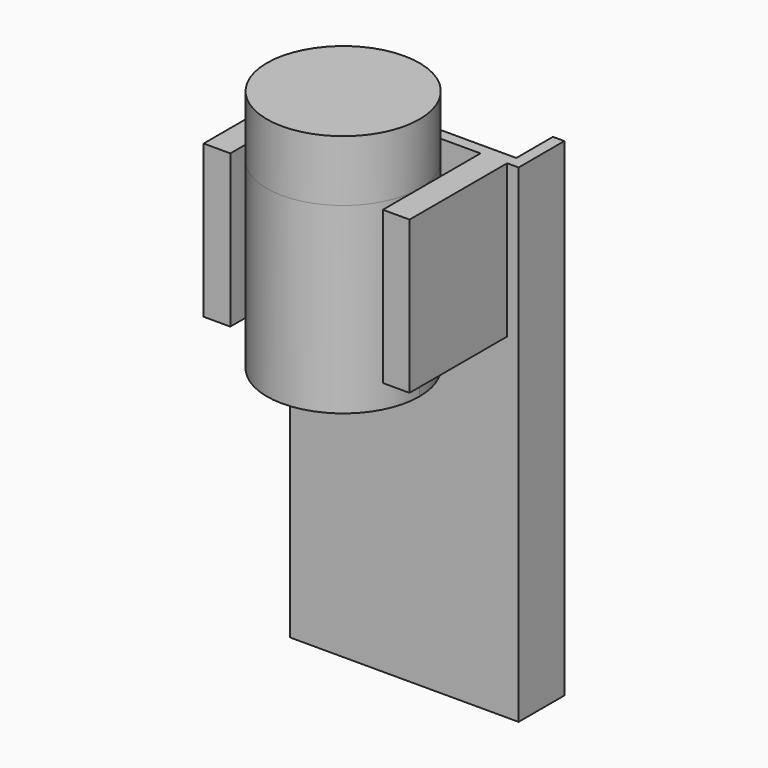
from build123d import *

# Parameters (mm, degrees)
F0_W          = 9.525
F0_H          = 406.4
F0_W_2        = 171.45
F1_DEPTH      = 9.525
F2_DEPTH      = 38.1
F4_DEPTH      = 152.4
F4_DEPTH_BACK = 50.8
F5_DEPTH      = 127


with BuildPart() as f1:
    # F0 (on Front) → F1 (new body)
    with BuildSketch(Plane.XZ):
        with Locations((-4.7625, 203.2)):
            Rectangle(F0_W, F0_H)
        with Locations((85.725, 203.2)):
            Rectangle(F0_W_2, F0_H)
        with Locations((176.2125, 203.2)):
            Rectangle(F0_W, F0_H)
    extrude(amount=F1_DEPTH)

    # F0 (on Front) → F2 (join)
    with BuildSketch(Plane.XZ):
        with Locations((176.2125, 203.2)):
            Rectangle(F0_W, F0_H)
        with Locations((-4.7625, 203.2)):
            Rectangle(F0_W, F0_H)
    extrude(amount=-F2_DEPTH)

    # F3 (on face) → F4 (join, two sides)
    with BuildSketch(Plane.XY.offset(406.4)) as f4_sk:
        with BuildLine():
            ThreePointArc((85.725, -9.525), (40.8237193947, -28.1237193947), (22.225, -73.025))
            ThreePointArc((22.225, -73.025), (85.725, -136.525), (149.225, -73.025))
            ThreePointArc((149.225, -73.025), (130.6262806053, -28.1237193947), (85.725, -9.525))
        make_face()
    extrude(amount=-F4_DEPTH)
    extrude(f4_sk.sketch, amount=F4_DEPTH_BACK)

    # F3 (on face) → F5 (join)
    with BuildSketch(Plane.XY.offset(406.4)):
        Polygon((149.225, -9.525), (149.225, -73.025), (149.225, -111.125), (149.7277021408, -111.125), (171.45, -111.125), (171.45, -9.525), align=None)
        Polygon((22.225, -111.125), (22.225, -73.025), (22.225, -9.525), (0, -9.525), (0, -111.125), align=None)
    extrude(amount=-F5_DEPTH)


solid = f1.part
